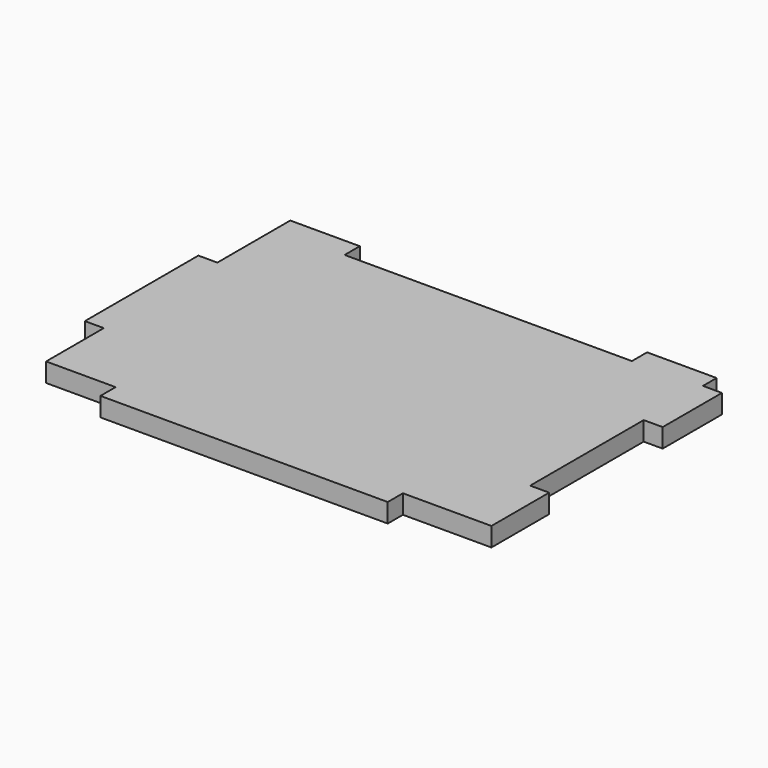
from build123d import *

# Parameters (mm, degrees)
F1_DEPTH = 4.45


with BuildPart() as f1:
    # F0 (on Top) → F1 (new body)
    with BuildSketch(Plane.XY):
        Polygon((33.6925, -33.5685), (50, -33.5685), (54.45, -33.5685), (54.45, -16.64242), (50, -16.64242), (50, 16.64242), (54.45, 16.64242), (54.45, 34.008425), (50, 34.008425), (50, 38.0185), (33.6925, 38.0185), (33.6925, 33.5685), (-33.6925, 33.5685), (-33.6925, 38.0185), (-50, 38.0185), (-50, 33.5685), (-50, 16.64242), (-54.45, 16.64242), (-54.45, -16.64242), (-50, -16.64242), (-50, -33.5685), (-33.6925, -33.5685), (-33.6925, -38.0185), (33.6925, -38.0185), align=None)
    extrude(amount=F1_DEPTH)


solid = f1.part
